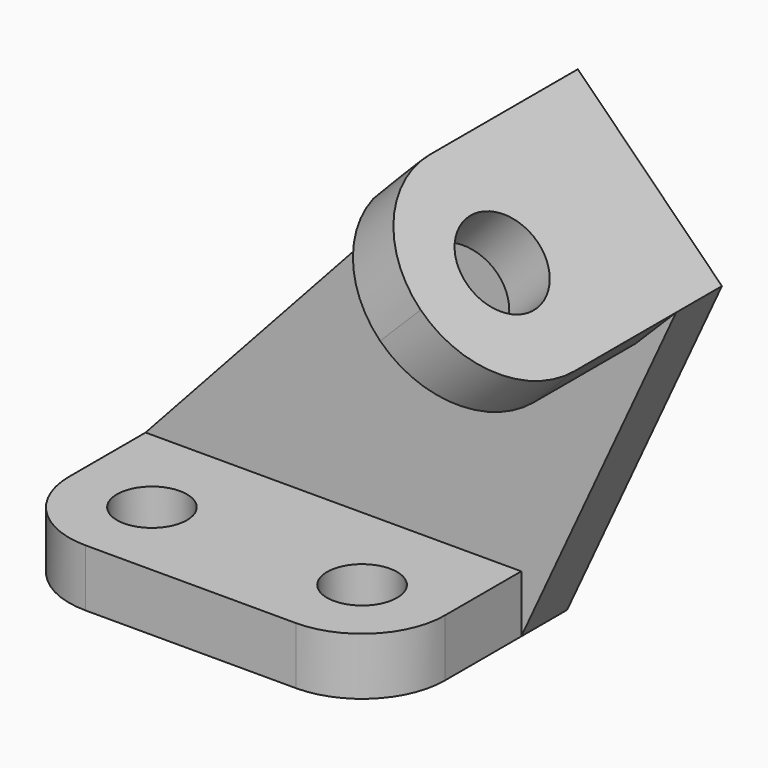
from build123d import *

# Parameters (mm, degrees)
F0_W       = 59
F0_H       = 9
F1_DEPTH   = 37
F2_R       = 5.5
F3_DEPTH   = 25
F5_DEPTH   = 9
F6_DEPTH   = 45
F7_R       = 7
F6_FACE1_W = 36
F6_FACE1_H = 9
F8_DEPTH   = 25
F9_R       = 13


with BuildPart() as f1:
    # F0 (on Front) → F1 (new body)
    with BuildSketch(Plane.XZ):
        with Locations((29.5, 4.5)):
            Rectangle(F0_W, F0_H)
    extrude(amount=F1_DEPTH)

    # F2 (on face) → F3 (cut)
    with BuildSketch(Plane.XY.offset(9)):
        with Locations((46, -24)):
            Circle(F2_R)
        with Locations((13, -24)):
            Circle(F2_R)
        with Locations((13, -24)):
            Circle(F2_R)
    extrude(amount=-F3_DEPTH, mode=Mode.SUBTRACT)

    # F4 (on face) → F5 (join)
    with BuildSketch(Plane(origin=(0, 0, 0), x_dir=(-1, 0, 0), z_dir=(0, 1, 0))):
        Polygon((-77.2376988573, 46.0468557694), (-83.313708499, 52.686291501), (-59, 0), (-59, 9), (0, 9), (-54.6102818594, 68.6742727673), align=None)
    extrude(amount=-F5_DEPTH)

    # F4 (on face) → F6 (join)
    with BuildSketch(Plane(origin=(0, 0, 0), x_dir=(-1, 0, 0), z_dir=(0, 1, 0))):
        Polygon((-60.686291501, 75.313708499), (-72, 64), (-83.313708499, 52.686291501), (-77.2376988573, 46.0468557694), (-54.6102818594, 68.6742727673), align=None)
    extrude(amount=-F6_DEPTH)

    # F7 (on face) + F6_face1 (on face) → F8 (cut)
    with BuildSketch(Plane(origin=(68, 0, 68), x_dir=(0, 1, 0), z_dir=(0.7071067812, 0, 0.7071067812))):
        with Locations((-29, -5.6568542495)):
            Circle(F7_R)
        with BuildLine():
            ThreePointArc((-45, -5.6568542495), (-40.313708499, 5.6568542495), (-29, 10.3431457505))
            Line((-29, 10.3431457505), (-45, 10.3431457505))
            Line((-45, 10.3431457505), (-45, -5.6568542495))
        make_face()
        with BuildLine():
            ThreePointArc((-29, -21.6568542495), (-40.313708499, -16.9705627485), (-45, -5.6568542495))
            Line((-45, -5.6568542495), (-45, -21.6568542495))
            Line((-45, -21.6568542495), (-29, -21.6568542495))
        make_face()
    with BuildSketch(Plane(origin=(80.2757036782, -27, 49.3665736352), x_dir=(0, 1, 0), z_dir=(0.7377150813, 0, -0.6751121824))):
        Rectangle(F6_FACE1_W, F6_FACE1_H)
    extrude(amount=-F8_DEPTH, dir=(0.7071067812, 0, 0.7071067812), mode=Mode.SUBTRACT)

    # F9
    f9_edges = [f1.edges().sort_by_distance(p)[0] for p in [
        (59, -37, 4.5),
        (0, -37, 4.5),
    ]]
    fillet(f9_edges, radius=F9_R)


solid = f1.part
